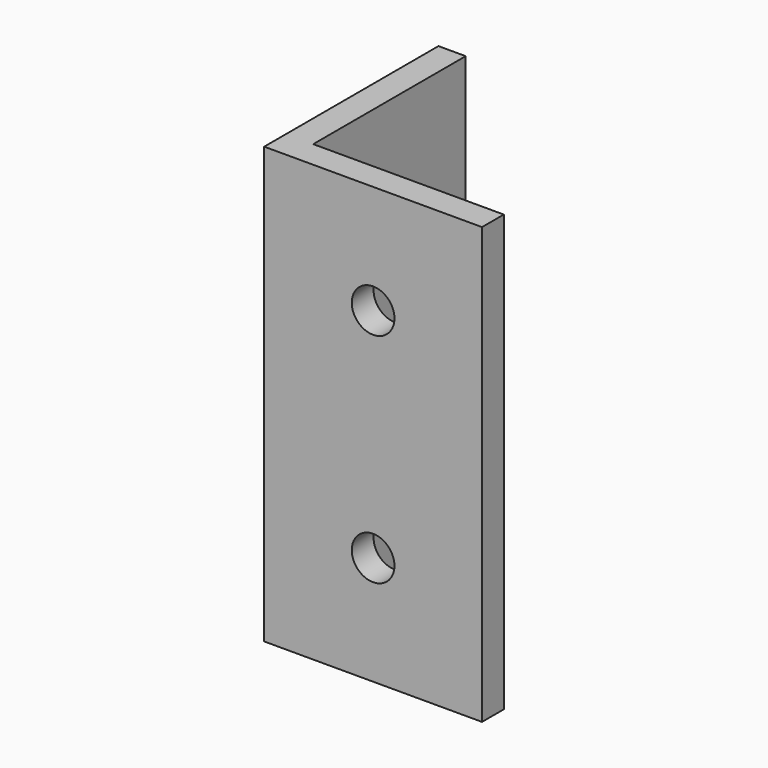
from build123d import *

# Parameters (mm, degrees)
F1_DEPTH = 50.8
F2_R     = 2.4892
F3_DEPTH = 25.401
F4_R     = 3.175
F5_DEPTH = 25.401


with BuildPart() as f1:
    # F0 (on Top) → F1 (new body)
    with BuildSketch(Plane.XY):
        Polygon((3.175, 25.4), (0, 25.4), (0, 0), (25.4, 0), (25.4, 3.175), (3.175, 3.175), align=None)
    extrude(amount=F1_DEPTH)

    # F2 (on face) → F3 (cut, through all)
    with BuildSketch(Plane.XZ):
        with Locations((12.7, 38.1)):
            Circle(F2_R)
        with Locations((12.7, 12.7)):
            Circle(F2_R)
    extrude(amount=-F3_DEPTH, mode=Mode.SUBTRACT)

    # F4 (on face) → F5 (cut, through all)
    with BuildSketch(Plane(origin=(0, 0, 0), x_dir=(0, -1, 0), z_dir=(-1, 0, 0))):
        with Locations((-6.35, 25.4)):
            Circle(F4_R)
    extrude(amount=-F5_DEPTH, mode=Mode.SUBTRACT)


solid = f1.part
